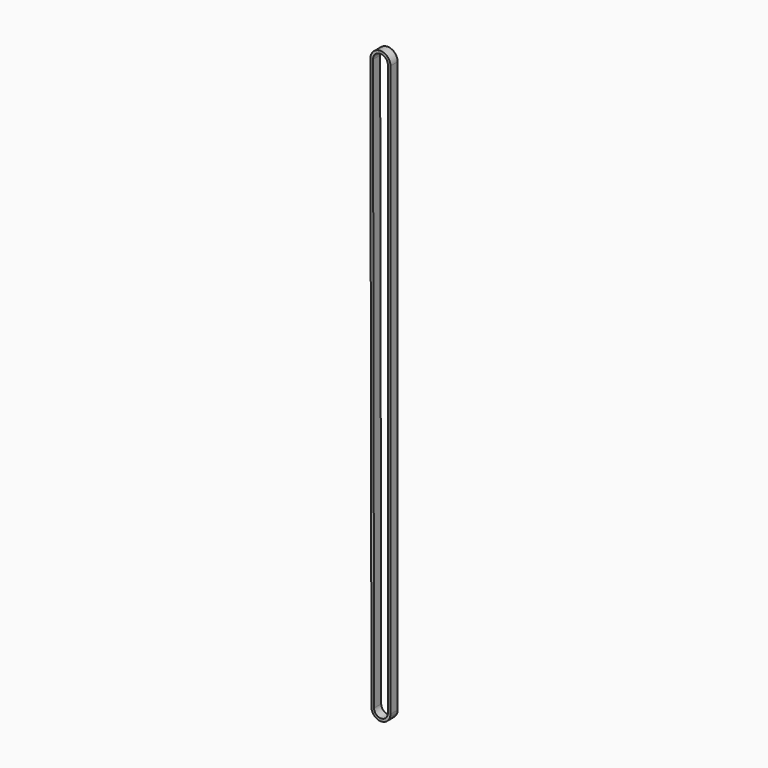
from build123d import *

# Parameters (mm, degrees)
F1_W = 1.756
F1_H = 6


with BuildPart() as f2:
    # F2: sweep along a path in F0
    with BuildLine(Plane.XZ) as f2_path:
        ThreePointArc((6.3661977237, 0), (-0.0060204211, 6.366194877), (-6.3661863368, -0.0120408369))
        Line((-6.3661863368, -0.0120408369), (-5.6417915373, -383.0113557869))
        ThreePointArc((-5.6417915373, -383.0113557869), (0.3678756197, -389.0039973152), (6.3661977237, -383))
        Line((6.3661977237, -383), (6.3661977237, 0))
    # F1 (on Top) → F2 (sweep)
    with BuildSketch(Plane.XY):
        with Locations((5.8641977237, 0)):
            Rectangle(F1_W, F1_H)
    sweep(path=f2_path.line)


solid = f2.part
